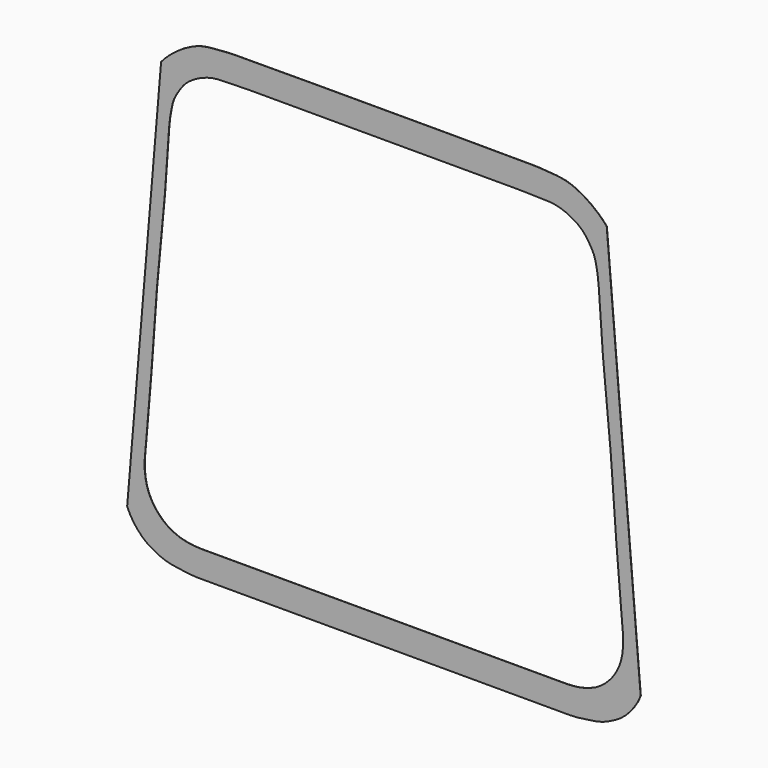
from build123d import *

# Parameters (mm, degrees)
F1_DEPTH = 4


with BuildPart() as f1:
    # F0 (on Front) → F1 (new body)
    with BuildSketch(Plane.XZ):
        Polygon((-4023.7537, 3874.4017), (-4100.2331, 3791.5977), (-4724.8953, -3609.5559), (-4697.9459, -3673.5893), (-4670.3361, -3731.8823), (-4605.2867, -3835.3365), (-4524.2607, -3938.1557), (-4447.4003, -4018.2165), (-4362.0055, -4088.5999), (-4289.6917, -4135.0057), (-4214.0505, -4176.5855), (-4117.4543, -4224.6677), (-4017.5815, -4263.7075), (-3904.8817, -4290.9109), (-3789.6927, -4309.4275), (-3564.6233, -4339.9329), (-3429.0127, -4347.5529), (-3169.8565, -4347.5529), (-2286.0127, -4347.5529), (-2195.9189, -4347.5529), (-1143.0127, -4347.5529), (-1138.3137, -4347.5529), (-0.0127, -4347.5529), (1138.3137, -4347.5529), (1142.9873, -4347.5529), (2195.9189, -4347.5529), (2285.9873, -4347.5529), (3169.8565, -4347.5529), (3428.9873, -4347.5529), (3564.6233, -4339.9329), (3789.6927, -4309.4275), (3904.8817, -4290.9109), (4017.5815, -4263.7075), (4117.4543, -4224.6677), (4214.0505, -4176.5855), (4289.6917, -4135.0057), (4362.0055, -4088.5999), (4447.4003, -4018.2165), (4524.2607, -3938.1557), (4605.2867, -3835.3365), (4670.3361, -3731.8823), (4697.9459, -3673.5893), (4724.8953, -3609.5559), (4100.2331, 3791.5977), (4023.7537, 3874.4017), (3941.8133, 3951.7955), (3814.6101, 4053.6241), (3675.5705, 4146.4357), (3530.8413, 4221.5689), (3443.7193, 4257.7131), (3354.0065, 4285.8309), (3261.0425, 4304.0681), (3166.7323, 4315.7013), (2864.5739, 4338.4597), (2717.7873, 4342.6507), (2379.7895, 4343.3111), (1650.9873, 4346.0289), (1312.1259, 4347.5529), (176.9999, 4347.5529), (-0.0127, 4347.5529), (-177.0253, 4347.5529), (-1312.1259, 4347.5529), (-1650.9873, 4346.0289), (-2379.7895, 4343.3111), (-2717.7873, 4342.6507), (-2864.5739, 4338.4597), (-3166.7323, 4315.7013), (-3261.0679, 4304.0681), (-3354.0065, 4285.8309), (-3443.7193, 4257.7131), (-3530.8413, 4221.5689), (-3675.5705, 4146.4357), (-3814.6101, 4053.6241), (-3941.8387, 3951.7955), align=None)
        Polygon((-0.0127, 3861.4731), (1492.5675, 3861.4731), (2485.6567, 3861.4731), (2952.2039, 3850.5003), (3049.1303, 3847.5285), (3145.4217, 3835.1079), (3243.0847, 3812.2225), (3337.8013, 3779.4819), (3417.7859, 3743.1345), (3494.9257, 3700.6149), (3573.3101, 3649.2815), (3644.8873, 3589.4137), (3690.9121, 3539.3249), (3744.0997, 3468.0779), (3792.4105, 3393.0717), (3828.9865, 3331.4767), (3860.5079, 3267.5195), (3889.6671, 3178.2893), (3909.7839, 3085.9349), (3931.7295, 2962.7195), (3953.2687, 2772.0163), (4030.8149, 1671.1041), (4175.3663, 128.0541), (4278.7443, -1286.7767), (4363.5803, -2303.9451), (4403.2043, -2759.5957), (4402.8995, -2906.5855), (4385.8561, -3052.9149), (4362.7421, -3159.1631), (4328.6807, -3262.1601), (4280.6747, -3362.5155), (4220.7815, -3456.3685), (4175.3409, -3514.6615), (4125.7093, -3569.2969), (4072.2423, -3620.6811), (3989.7177, -3686.3147), (3900.0303, -3741.7629), (3757.5617, -3802.0371), (3607.0413, -3839.2989), (3493.1985, -3854.1325), (3378.6953, -3860.6603), (3301.9873, -3861.3715), (2285.9873, -3861.3715), (761.9873, -3861.3715), (-0.0127, -3861.3715), (-762.0127, -3861.3715), (-2286.0127, -3861.3715), (-3302.0127, -3861.3715), (-3378.6953, -3860.6603), (-3493.1985, -3854.1325), (-3607.0413, -3839.2989), (-3757.5617, -3802.0371), (-3900.0303, -3741.7629), (-3989.7177, -3686.3147), (-4072.2677, -3620.6811), (-4125.7093, -3569.2969), (-4175.3409, -3514.6615), (-4220.7815, -3456.3685), (-4280.6747, -3362.5155), (-4328.6807, -3262.1601), (-4362.7421, -3159.1631), (-4385.8561, -3052.9149), (-4402.8995, -2906.5855), (-4403.2043, -2759.5957), (-4363.5803, -2303.9451), (-4278.7443, -1286.7767), (-4175.3663, 128.0541), (-4030.8149, 1671.1041), (-3953.2687, 2772.0163), (-3936.7841, 2929.3947), (-3909.7839, 3085.9349), (-3889.6925, 3178.3655), (-3860.5079, 3267.5195), (-3828.9865, 3331.4767), (-3792.4105, 3393.0717), (-3744.0997, 3468.0779), (-3690.9121, 3539.3249), (-3644.8873, 3589.4137), (-3573.3101, 3649.2815), (-3494.9511, 3700.6149), (-3417.8113, 3743.1345), (-3337.8013, 3779.4819), (-3243.0847, 3812.2225), (-3145.4217, 3835.1079), (-3049.1303, 3847.5285), (-2952.2039, 3850.5003), (-2485.6567, 3861.4731), (-1492.5929, 3861.4731), align=None, mode=Mode.SUBTRACT)
    extrude(amount=F1_DEPTH)


solid = f1.part
